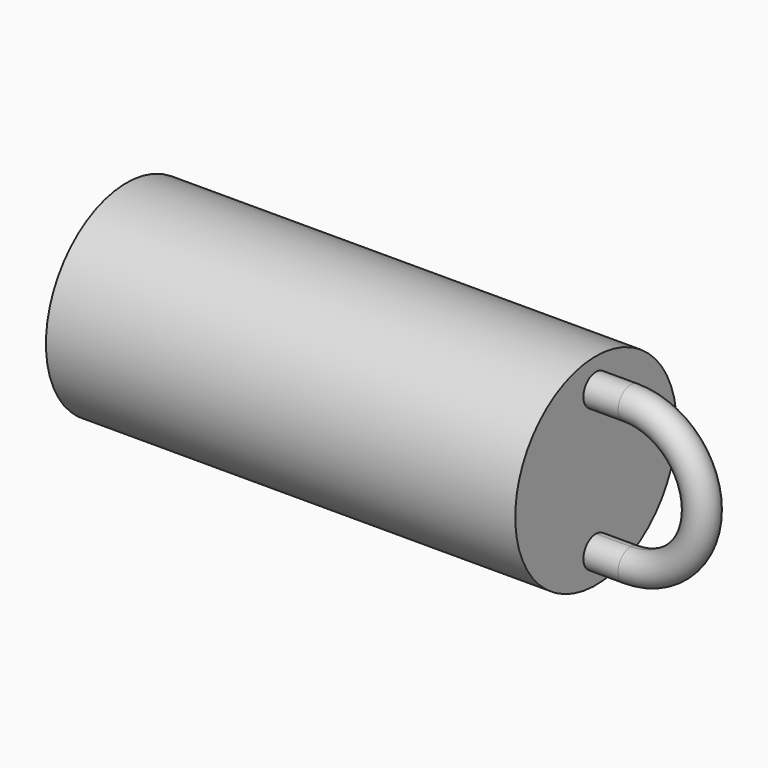
from build123d import *

# Parameters (mm, degrees)
F0_R     = 29
F1_DEPTH = 135
F4_DEPTH = 10
F5_DEPTH = 10


with BuildPart() as f1:
    # F0 (on Right) → F1 (new body)
    with BuildSketch(Plane.YZ):
        Circle(F0_R)
    extrude(amount=-F1_DEPTH)

    # F2 (on Right) → F3 (revolve)
    with BuildSketch(Plane.YZ):
        with BuildLine():
            ThreePointArc((0, 16), (3.1819805153, 17.3180194847), (4.5, 20.5))
            ThreePointArc((4.5, 20.5), (-3.1819805153, 23.6819805153), (0, 16))
        make_face()
    revolve(axis=Axis((0, -100, 0), (0, -1, 0)))

    # F4 (add): a face of the model
    f4_faces = [f1.faces().sort_by_distance(p)[0] for p in [
        (-135, 0, 0),
    ]]
    extrude(f4_faces, amount=F4_DEPTH)

    # F5 (cut): a face of the model
    f5_faces = [f1.faces().sort_by_distance(p)[0] for p in [
        (0, 0, 0),
    ]]
    extrude(f5_faces, amount=-F5_DEPTH, mode=Mode.SUBTRACT)


solid = f1.part
